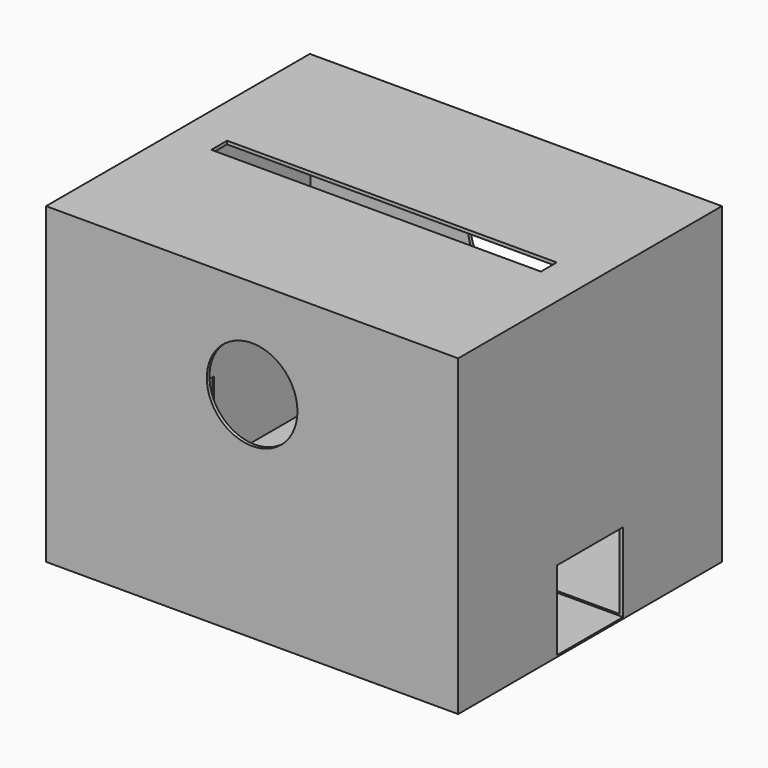
from build123d import *

# Parameters (mm, degrees)
F0_W     = 25
F0_H     = 19
F1_DEPTH = 20
F3_T     = -0.2
F2_R     = 2.75
F4_DEPTH = 25
F5_W     = 20
F5_H     = 1.2
F6_DEPTH = 1
F7_W     = 5
F7_H     = 4.8
F8_DEPTH = 24.9


with BuildPart() as f1:
    # F0 (on Front) → F1 (new body)
    with BuildSketch(Plane.XZ):
        with Locations((-12.5, 9.5)):
            Rectangle(F0_W, F0_H)
    extrude(amount=F1_DEPTH)

    # F3 (hollow: no face is removed)
    offset(amount=F3_T, mode=Mode.SUBTRACT)

    # F2 (on Front) → F4 (cut)
    with BuildSketch(Plane.XZ):
        with Locations((-12.5, 13)):
            Circle(F2_R)
    extrude(amount=F4_DEPTH, mode=Mode.SUBTRACT)

    # F5 (on face) → F6 (cut)
    with BuildSketch(Plane.XY.offset(19)):
        with Locations((-12.5, -10)):
            Rectangle(F5_W, F5_H)
    extrude(amount=-F6_DEPTH, mode=Mode.SUBTRACT)

    # F7 (on face) → F8 (cut)
    with BuildSketch(Plane.YZ):
        with Locations((-10, 2.5)):
            Rectangle(F7_W, F7_H)
    extrude(amount=-F8_DEPTH, mode=Mode.SUBTRACT)


solid = f1.part
